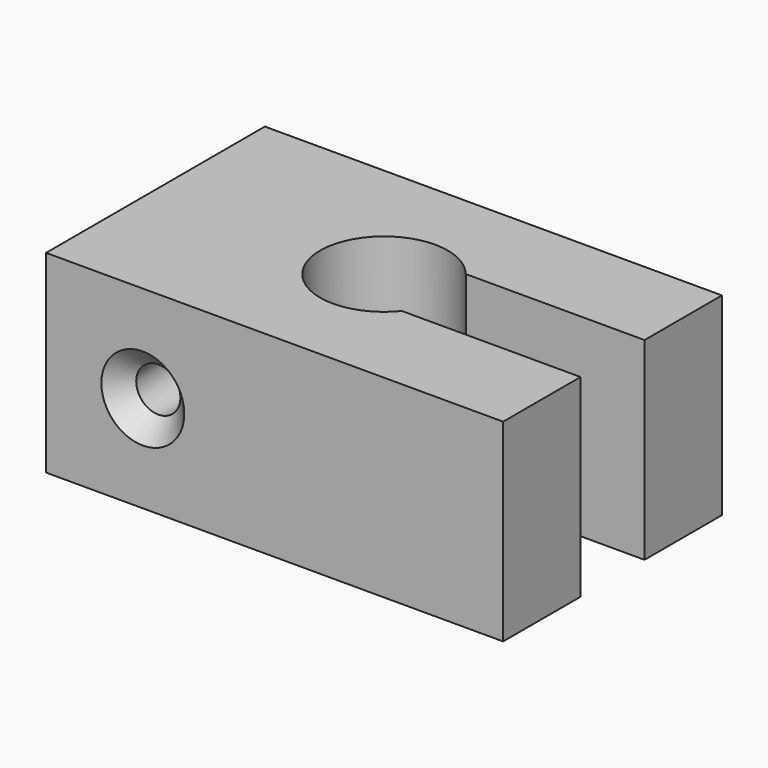
from build123d import *

# Parameters (mm, degrees)
F1_DEPTH = 12.7
F2_R     = 1.45
F3_DEPTH = 29.2862
F4_SIZE  = 1.27


with BuildPart() as f1:
    # F0 (on Top) → F1 (new body)
    with BuildSketch(Plane.XY):
        with BuildLine():
            Line((15, 2.625), (15, 8.975))
            Line((15, 8.975), (-15, 8.975))
            Line((-15, 8.975), (-15, -8.975))
            Line((-15, -8.975), (15, -8.975))
            Line((15, -8.975), (15, -2.625))
            Line((15, -2.625), (3.267087, -2.625))
            ThreePointArc((3.267087, -2.625), (-4.191, 0), (3.267087, 2.625))
            Line((3.267087, 2.625), (15, 2.625))
        make_face()
    extrude(amount=F1_DEPTH)

    # F2 (on face) → F3 (cut)
    with BuildSketch(Plane(origin=(0, 8.975, 0), x_dir=(-1, 0, 0), z_dir=(0, 1, 0))):
        with Locations((8.65, 6.35)):
            Circle(F2_R)
    extrude(amount=-F3_DEPTH, mode=Mode.SUBTRACT)

    # F4
    f4_edges = [f1.edges().sort_by_distance(p)[0] for p in [
        (-7.2, 8.975, 6.35),
        (-7.2, -8.975, 6.35),
    ]]
    chamfer(f4_edges, length=F4_SIZE)


solid = f1.part
